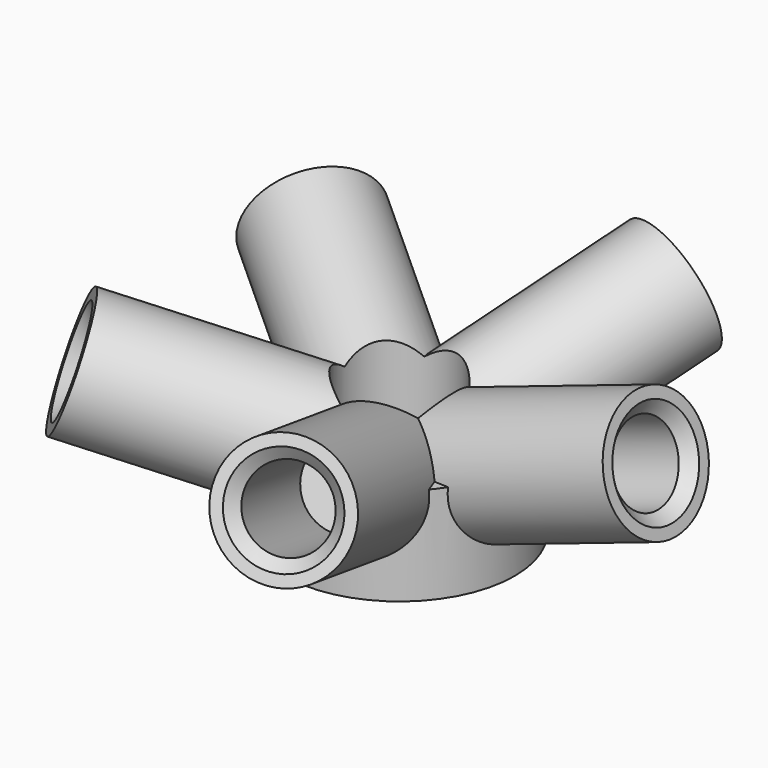
from build123d import *

# Parameters (mm, degrees)
F3_COUNT = 5
F5_R     = 3.65
F6_DEPTH = 13.536313851
F7_SIZE  = 0.75


with BuildPart() as f2:
    # F1 (on Front) → F2 (revolve)
    with BuildSketch(Plane.XZ):
        Polygon((8.5060233307, 0.1325409275), (7.6729152797, 2.595452005), (7.6729152797, -1.7327594752), (18.364670155, 1.8838498077), (17.8840308948, 3.3047600447), align=None)
        Polygon((7.6729152797, 2.595452005), (0, 0), (1.3137473112, -3.8838213144), (7.6729152797, -1.7327594752), align=None)
    revolve(axis=Axis((8.5254614219, 0, 2.8838355611), (0.9472734913, 0, 0.3204261735)))

    # F3: F2 ×5 about axis
    f3_axis = Axis((0, 0, 20.6734314561), (0, 0, 1))


with BuildPart() as f2_1:
    add(f2.part)
    for i in range(1, F3_COUNT):
        add(f2.part.rotate(f3_axis, i * 360 / F3_COUNT))

    # F1 (on Front) → F4 (revolve)
    with BuildSketch(Plane.XZ):
        Polygon((1.3137473112, -3.8838213144), (0, 0), (0, -3.8838213144), align=None)
        Polygon((7.6729152797, 2.595452005), (0, 0), (1.3137473112, -3.8838213144), (7.6729152797, -1.7327594752), align=None)
        Polygon((7.6729152797, -1.7327594752), (1.3137473112, -3.8838213144), (7.6729152797, -3.8838213144), align=None)
        Polygon((0, 2.595452005), (0, 0), (7.6729152797, 2.595452005), align=None)
    revolve(axis=Axis((0, 0, 20.6734314561), (0, 0, 1)))

    # F5 (on face) → F6 (cut, through all)
    with BuildSketch(Plane(origin=(0, 0, -3.8838213144), x_dir=(1, 0, 0), z_dir=(0, 0, -1))):
        Circle(F5_R)
    extrude(amount=-F6_DEPTH, mode=Mode.SUBTRACT)

    # F7
    f7_edges = [f2_1.edges().sort_by_distance(p)[0] for p in [
        (-13.120488, -9.532592, 8.230582),
        (5.01158, -15.424058, 8.230582),
        (16.217815, 0, 8.230582),
        (5.01158, 15.424058, 8.230582),
        (-13.120488, 9.532592, 8.230582),
    ]]
    chamfer(f7_edges, length=F7_SIZE)


solid = f2_1.part
